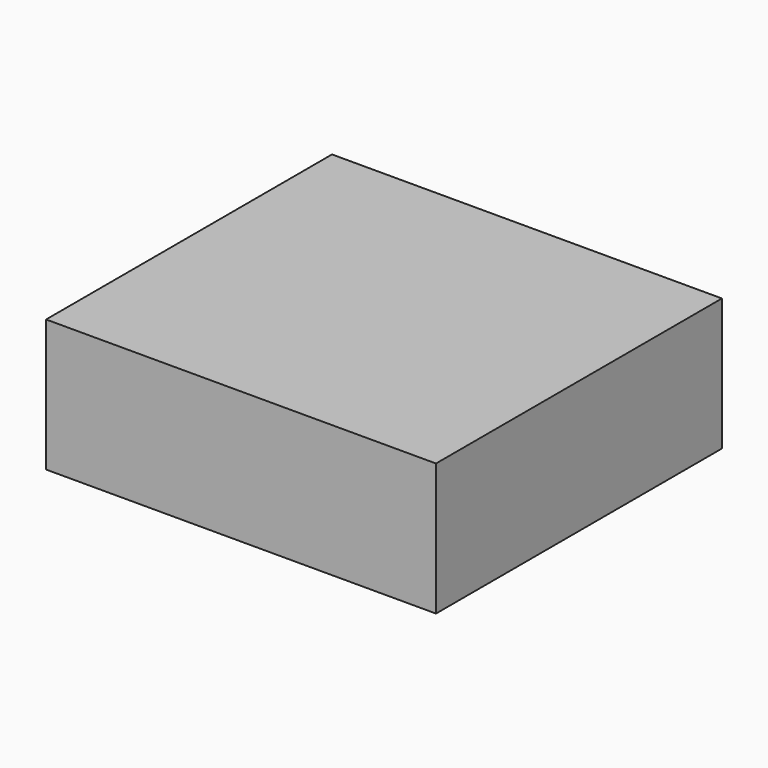
from build123d import *

# Parameters (mm, degrees)
F0_W     = 74.953612
F0_H     = 68.707474
F1_DEPTH = 25.4
F3_DEPTH = 25.4
F5_DEPTH = 25.4
F6_R     = 11.148412
F7_DEPTH = 25.4


with BuildPart() as f1:
    # F0 (on Top) → F1 (new body)
    with BuildSketch(Plane.XY):
        with Locations((4.114518, -1.908541)):
            Rectangle(F0_W, F0_H)
    extrude(amount=F1_DEPTH)

    # F2 (on Top) → F3 (cut)
    with BuildSketch(Plane.XY):
        with BuildLine():
            ThreePointArc((-26.174275, 15.169183), (0.596139, 6.733711), (28.553754, 9.220484))
            ThreePointArc((28.553754, 9.220484), (1.973893, 19.409044), (-26.174275, 15.169183))
        make_face()
    extrude(amount=-F3_DEPTH, mode=Mode.SUBTRACT)

    # F4 (on Top) → F5 (join)
    with BuildSketch(Plane.XY):
        Polygon((-5.488566, 3.637098), (-12.357531, 26.304687), (-28.553756, 9.022194), align=None)
    extrude(amount=F5_DEPTH)

    # F6 (on Top) → F7 (cut)
    with BuildSketch(Plane.XY):
        with Locations((-17.846096, 15.169183)):
            Circle(F6_R)
    extrude(amount=-F7_DEPTH, mode=Mode.SUBTRACT)


solid = f1.part
